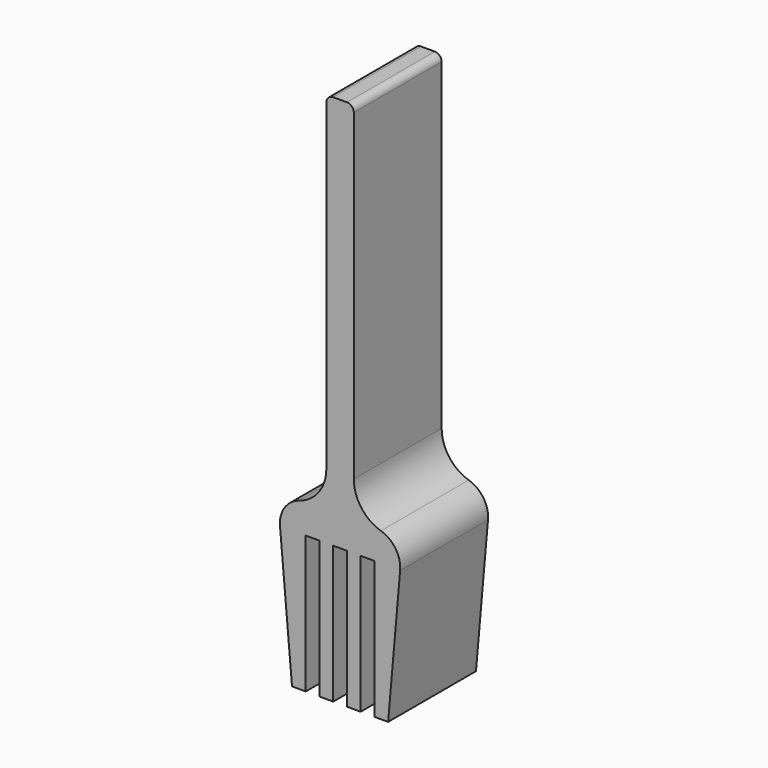
from build123d import *

# Parameters (mm, degrees)
F1_DEPTH = 25.4


with BuildPart() as f1:
    # F0 (on Front) → F1 (new body)
    with BuildSketch(Plane.XZ):
        with BuildLine():
            ThreePointArc((-1.5875, 76.2), (-2.710032, 75.735032), (-3.175, 74.6125))
            Line((-3.175, 74.6125), (-3.175, 0))
            ThreePointArc((-3.175, 0), (-4.910585, -5.276973), (-9.439667, -8.493511))
            ThreePointArc((-9.439667, -8.493511), (-12.834274, -11.017533), (-13.890265, -15.113743))
            Line((-13.890265, -15.113743), (-11.1125, -46.863743))
            Line((-11.1125, -46.863743), (-7.9375, -46.863743))
            Line((-7.9375, -46.863743), (-7.9375, -15.113743))
            Line((-7.9375, -15.113743), (-4.7625, -15.113743))
            Line((-4.7625, -15.113743), (-4.7625, -46.863743))
            Line((-4.7625, -46.863743), (-1.5875, -46.863743))
            Line((-1.5875, -46.863743), (-1.5875, -15.113743))
            Line((-1.5875, -15.113743), (0, -15.113743))
            Line((0, -15.113743), (1.5875, -15.113743))
            Line((1.5875, -15.113743), (1.5875, -46.863743))
            Line((1.5875, -46.863743), (4.7625, -46.863743))
            Line((4.7625, -46.863743), (4.7625, -15.113743))
            Line((4.7625, -15.113743), (7.9375, -15.113743))
            Line((7.9375, -15.113743), (7.9375, -46.863743))
            Line((7.9375, -46.863743), (11.1125, -46.863743))
            Line((11.1125, -46.863743), (13.890265, -15.113743))
            ThreePointArc((13.890265, -15.113743), (12.834274, -11.017533), (9.439667, -8.493511))
            ThreePointArc((9.439667, -8.493511), (4.910585, -5.276973), (3.175, 0))
            Line((3.175, 0), (3.175, 74.6125))
            ThreePointArc((3.175, 74.6125), (2.710032, 75.735032), (1.5875, 76.2))
            Line((1.5875, 76.2), (0, 76.2))
            Line((0, 76.2), (-1.5875, 76.2))
        make_face()
    extrude(amount=F1_DEPTH)


solid = f1.part
